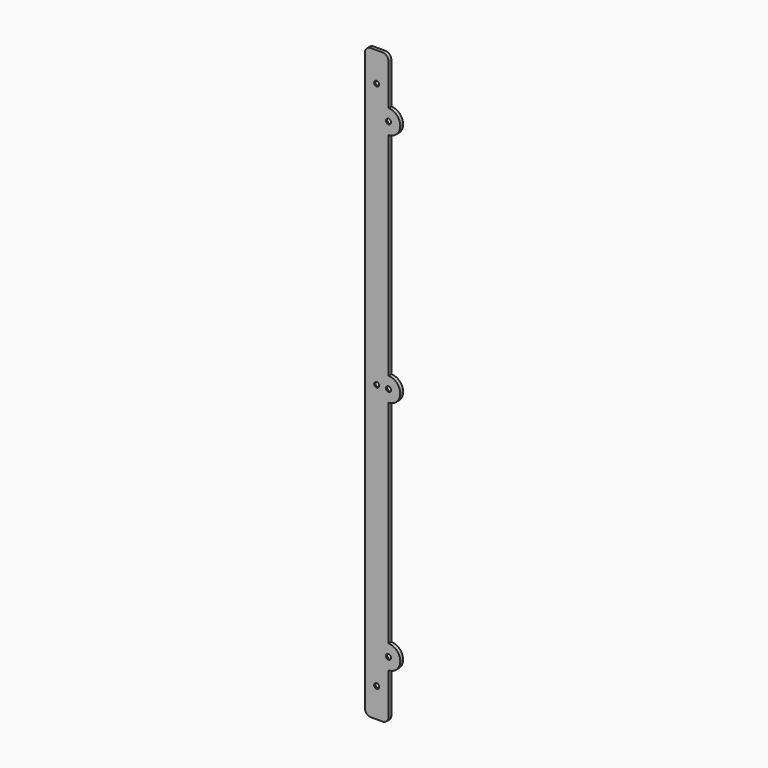
from build123d import *

# Parameters (mm, degrees)
F1_DEPTH       = 3
F2_D           = 4.3
F2_CBORE_D     = 7.5
F2_CBORE_DEPTH = 2
F3_D           = 4.3
F3_CBORE_D     = 7.5
F3_CBORE_DEPTH = 2
F4_R           = 5


with BuildPart() as f1:
    # F0 (on Front) → F1 (new body)
    with BuildSketch(Plane.XZ):
        with BuildLine():
            Line((10, 250), (-10, 250))
            Line((-10, 250), (-10, -250))
            Line((-10, -250), (10, -250))
            Line((10, -250), (10, -210))
            ThreePointArc((10, -210), (0, -200), (10, -190))
            Line((10, -190), (10, -10))
            ThreePointArc((10, -10), (0, 0), (10, 10))
            Line((10, 10), (10, 190))
            ThreePointArc((10, 190), (0, 200), (10, 210))
            Line((10, 210), (10, 250))
        make_face()
        with BuildLine():
            ThreePointArc((20, 200), (17.0710678119, 207.0710678119), (10, 210))
            Line((10, 210), (10, 190))
            ThreePointArc((10, 190), (17.0710678119, 192.9289321881), (20, 200))
        make_face()
        with BuildLine():
            Line((10, 190), (10, 210))
            ThreePointArc((10, 210), (0, 200), (10, 190))
        make_face()
        with BuildLine():
            ThreePointArc((10, -190), (0, -200), (10, -210))
            Line((10, -210), (10, -190))
        make_face()
        with BuildLine():
            Line((10, -190), (10, -210))
            ThreePointArc((10, -210), (17.0710678119, -207.0710678119), (20, -200))
            ThreePointArc((20, -200), (17.0710678119, -192.9289321881), (10, -190))
        make_face()
        with BuildLine():
            ThreePointArc((20, 0), (17.0710678119, 7.0710678119), (10, 10))
            Line((10, 10), (10, -10))
            ThreePointArc((10, -10), (17.0710678119, -7.0710678119), (20, 0))
        make_face()
        with BuildLine():
            Line((10, -10), (10, 10))
            ThreePointArc((10, 10), (0, 0), (10, -10))
        make_face()
    extrude(amount=F1_DEPTH)

    # F2 (through all)
    with Locations(Plane(origin=(0, 0, 0), x_dir=(1, 0, 0), z_dir=(0, 1, 0))):
        with Locations((0, 0), (0, -225), (0, 225)):
            CounterBoreHole(F2_D / 2, F2_CBORE_D / 2, F2_CBORE_DEPTH)

    # F3 (through all)
    with Locations(Plane(origin=(0, 0, 0), x_dir=(1, 0, 0), z_dir=(0, 1, 0))):
        with Locations((10, 0), (10, -200), (10, 200)):
            CounterBoreHole(F3_D / 2, F3_CBORE_D / 2, F3_CBORE_DEPTH)

    # F4
    f4_edges = [f1.edges().sort_by_distance(p)[0] for p in [
        (-10, -1.5, 250),
        (10, -1.5, 250),
        (-10, -1.5, -250),
        (10, -1.5, -250),
    ]]
    fillet(f4_edges, radius=F4_R)


solid = f1.part
